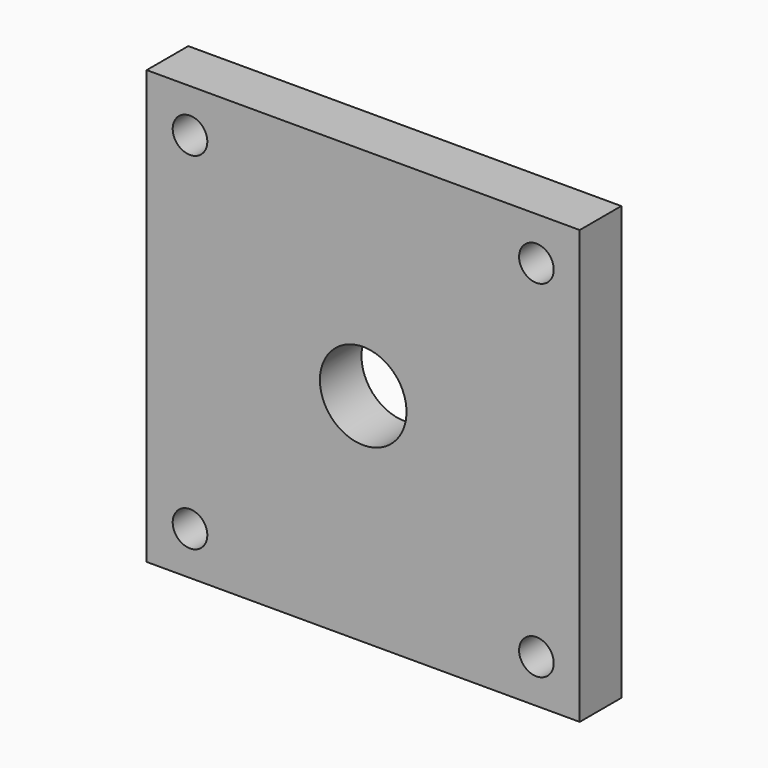
from build123d import *

# Parameters (mm, degrees)
F0_W     = 100
F0_H     = 100
F1_DEPTH = 12
F2_R     = 4
F2_R_2   = 10
F3_DEPTH = 12
F5_DEPTH = 18


with BuildPart() as f1:
    # F0 (on Front) → F1 (new body)
    with BuildSketch(Plane.XZ):
        Rectangle(F0_W, F0_H)
    extrude(amount=F1_DEPTH)

    # F2 (on face) → F3 (cut)
    with BuildSketch(Plane(origin=(0, 0, 0), x_dir=(-1, 0, 0), z_dir=(0, 1, 0))):
        with Locations((-40, -40)):
            Circle(F2_R)
        with Locations((-40, 40)):
            Circle(F2_R)
        with Locations((40, -40)):
            Circle(F2_R)
        with Locations((40, 40)):
            Circle(F2_R)
        Circle(F2_R_2)
    extrude(amount=-F3_DEPTH, mode=Mode.SUBTRACT)

    # F4 (on face) → F5 (join)
    with BuildSketch(Plane(origin=(0, 0, 0), x_dir=(-1, 0, 0), z_dir=(0, 1, 0))):
        with BuildLine():
            ThreePointArc((-35, -20), (-30.606602, -30.606602), (-20, -35))
            Line((-20, -35), (20, -35))
            ThreePointArc((20, -35), (30.606602, -30.606602), (35, -20))
            Line((35, -20), (35, 20))
            ThreePointArc((35, 20), (30.606602, 30.606602), (20, 35))
            Line((20, 35), (-20, 35))
            ThreePointArc((-20, 35), (-30.606602, 30.606602), (-35, 20))
            Line((-35, 20), (-35, -20))
        make_face()
        with BuildLine():
            Line((15, -30), (-20, -30))
            ThreePointArc((-20, -30), (-27.071068, -27.071068), (-30, -20))
            Line((-30, -20), (-30, 15))
            ThreePointArc((-30, 15), (-25.606602, 25.606602), (-15, 30))
            Line((-15, 30), (15, 30))
            ThreePointArc((15, 30), (25.606602, 25.606602), (30, 15))
            Line((30, 15), (30, -15))
            ThreePointArc((30, -15), (25.606602, -25.606602), (15, -30))
        make_face(mode=Mode.SUBTRACT)
    extrude(amount=F5_DEPTH)


solid = f1.part
